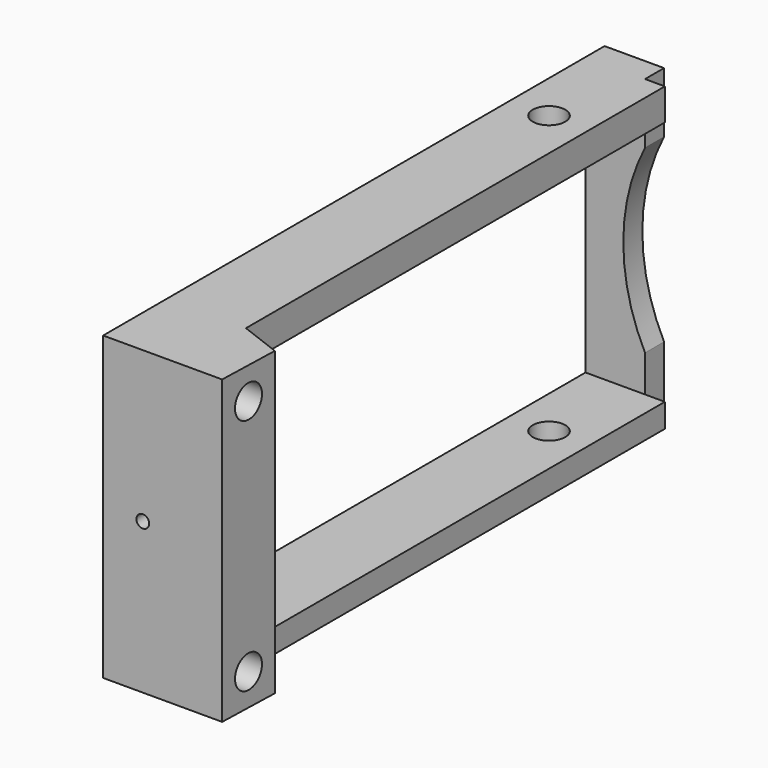
from build123d import *

# Parameters (mm, degrees)
PAD_DEPTH       = 38
SKETCH001_R     = 2.05
POCKET_DEPTH    = 17.363189
SKETCH002_W     = 66
SKETCH002_H     = 31
POCKET001_DEPTH = 15.241
SKETCH003_R     = 2.05
POCKET002_DEPTH = 38.001
SKETCH004_W     = 3
SKETCH004_H     = 38
POCKET003_DEPTH = 2.5
POCKET004_DEPTH = 5
SKETCH006_R     = 0.8
POCKET005_DEPTH = 15


with BuildPart() as part:
    # Sketch → Pad (new body)
    with BuildSketch(Plane.XY):
        Polygon((15, 0), (0, 0), (0, 79), (10, 79), (10, 10), (15.24, 8), align=None)
    extrude(amount=PAD_DEPTH)

    # Sketch001 (on Face6 of Pad) → Pocket (cut, through all)
    with BuildSketch(Plane(origin=(14.986512, -0.449595, 0), x_dir=(0.029987, 0.99955, 0), z_dir=(0.99955, -0.029987, 0))):
        with Locations((4.451597, 34)):
            Circle(SKETCH001_R)
        with Locations((4.451597, 4)):
            Circle(SKETCH001_R)
    extrude(amount=-POCKET_DEPTH, mode=Mode.SUBTRACT)

    # Sketch002 (on Face3 of Pocket) → Pocket001 (cut, through all)
    with BuildSketch(Plane(origin=(0, 0, 0), x_dir=(0, -1, 0), z_dir=(-1, 0, 0))):
        with Locations((-43, 18.5)):
            Rectangle(SKETCH002_W, SKETCH002_H)
    extrude(amount=-POCKET001_DEPTH, mode=Mode.SUBTRACT)

    # Sketch003 (on Face5 of Pocket001) → Pocket002 (cut, through all)
    with BuildSketch(Plane.XY.offset(38)):
        with Locations((5, 64)):
            Circle(SKETCH003_R)
    extrude(amount=-POCKET002_DEPTH, mode=Mode.SUBTRACT)

    # Sketch004 (on Face14 of Pocket002) → Pocket003 (cut)
    with BuildSketch(Plane.YZ.offset(10)):
        with Locations((77.5, 19)):
            Rectangle(SKETCH004_W, SKETCH004_H)
    extrude(amount=-POCKET003_DEPTH, mode=Mode.SUBTRACT)

    # Sketch005 (on Face9 of Pocket003) → Pocket004 (cut)
    with BuildSketch(Plane(origin=(0, 79, 0), x_dir=(-1, 0, 0), z_dir=(0, 1, 0))):
        with BuildLine():
            ThreePointArc((-7.5, 7.624688), (-4.762126, 19), (-7.5, 30.375312))
            Line((-7.5, 7.624688), (-7.5, 30.375312))
        make_face()
    extrude(amount=-POCKET004_DEPTH, mode=Mode.SUBTRACT)

    # Sketch006 (on Face1 of Pocket004) → Pocket005 (cut)
    with BuildSketch(Plane.XZ):
        with Locations((5, 19)):
            Circle(SKETCH006_R)
    extrude(amount=-POCKET005_DEPTH, mode=Mode.SUBTRACT)


solid = part.part
